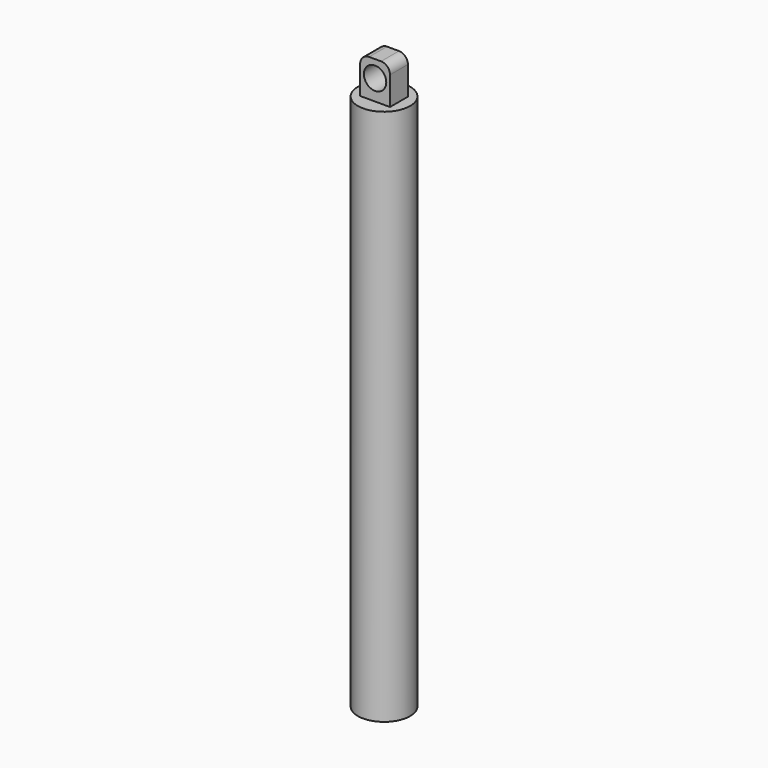
from build123d import *

# Parameters (mm, degrees)
F0_R     = 22.225
F1_DEPTH = 457.2
F2_W     = 25.4
F2_H     = 63.5
F2_R     = 9.525
F3_DEPTH = 9.525
F4_R     = 7.62


with BuildPart() as f1:
    # F0 (on Top) → F1 (new body)
    with BuildSketch(Plane.XY):
        Circle(F0_R)
    extrude(amount=-F1_DEPTH)

    # F2 (on Front) → F3 (join, symmetric)
    with BuildSketch(Plane.XZ):
        Rectangle(F2_W, F2_H)
        with Locations((0, 17.4507647753)):
            Circle(F2_R, mode=Mode.SUBTRACT)
    extrude(amount=F3_DEPTH, both=True)

    # F4
    f4_edges = [f1.edges().sort_by_distance(p)[0] for p in [
        (12.7, 0, 31.75),
        (-12.7, 0, 31.75),
    ]]
    fillet(f4_edges, radius=F4_R)


solid = f1.part
